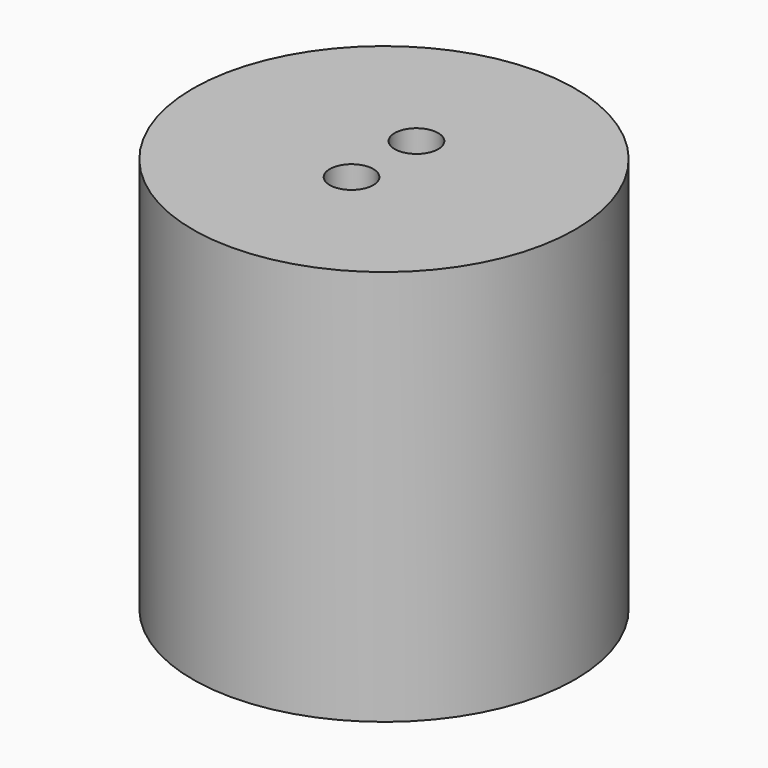
from build123d import *

# Parameters (mm, degrees)
F0_R     = 9.65
F0_R_2   = 7.575
F1_DEPTH = 20
F2_R     = 7.575
F3_DEPTH = 15
F4_R     = 1.1
F5_DEPTH = 5.001


with BuildPart() as f1:
    # F0 (on Top) → F1 (new body)
    with BuildSketch(Plane.XY):
        Circle(F0_R)
        Circle(F0_R_2, mode=Mode.SUBTRACT)
        Circle(F0_R_2)
    extrude(amount=F1_DEPTH)

    # F2 (on face) → F3 (cut)
    with BuildSketch(Plane(origin=(0, 0, 0), x_dir=(1, 0, 0), z_dir=(0, 0, -1))):
        Circle(F2_R)
    extrude(amount=-F3_DEPTH, mode=Mode.SUBTRACT)

    # F4 (on face) → F5 (cut, through all)
    with BuildSketch(Plane(origin=(0, 0, 15), x_dir=(1, 0, 0), z_dir=(0, 0, -1))):
        with Locations((-0.039568, 1.999609)):
            Circle(F4_R)
        with Locations((0.039568, -1.999609)):
            Circle(F4_R)
    extrude(amount=-F5_DEPTH, mode=Mode.SUBTRACT)


solid = f1.part
